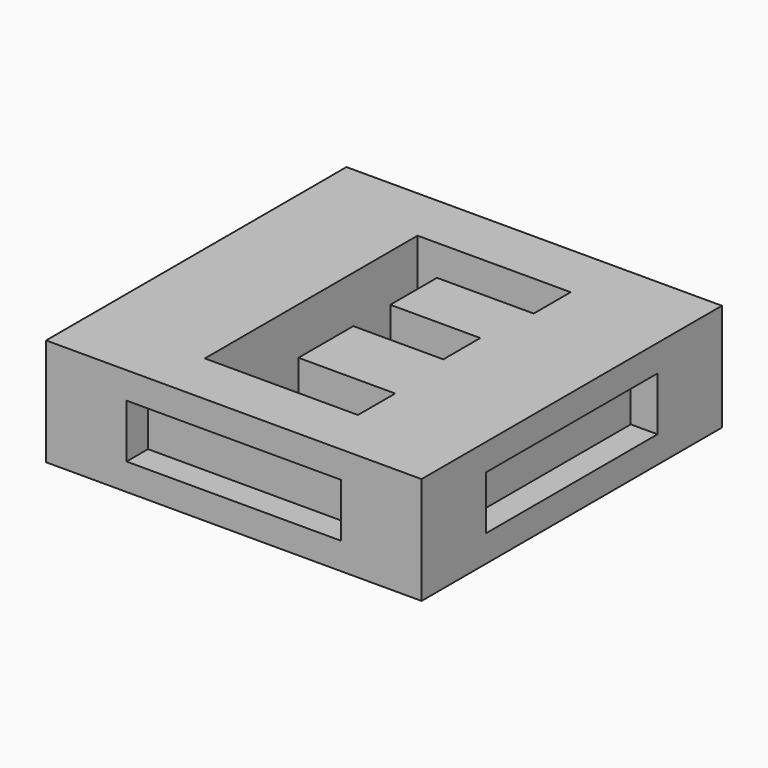
from build123d import *

# Parameters (mm, degrees)
F0_W     = 35.56
F0_H     = 35.56
F1_DEPTH = 5.08
F2_W     = 19.812
F2_H     = 4.572
F3_DEPTH = 2.54
F4_W     = 19.812
F4_H     = 4.572
F5_DEPTH = 2.54
F6_W     = 20.32
F6_H     = 5.08
F7_DEPTH = 2.54
F8_W     = 20.32
F8_H     = 5.08
F9_DEPTH = 2.54


with BuildPart() as f1:
    # F0 (on Top) → F1 (new body, symmetric)
    with BuildSketch(Plane.XY):
        Rectangle(F0_W, F0_H)
        Polygon((7.6922092014, -8.2902777778), (7.6922092014, -12.7), (-6.8102647569, -12.7), (-6.8102647569, 12.4850260417), (7.6922092014, 12.4850260417), (7.6922092014, 8.1083767361), (-1.4689887153, 8.1083767361), (-1.4689887153, 2.5796875), (7.0583116319, 2.5796875), (7.0583116319, -1.7969618056), (-1.4689887153, -1.7969618056), (-1.4689887153, -8.2902777778), align=None, mode=Mode.SUBTRACT)
    extrude(amount=F1_DEPTH, both=True)

    # F2 (on face) → F3 (join)
    with BuildSketch(Plane(origin=(0, 17.78, 0), x_dir=(-1, 0, 0), z_dir=(0, 1, 0))):
        Rectangle(F2_W, F2_H)
    extrude(amount=F3_DEPTH)

    # F4 (on face) → F5 (join)
    with BuildSketch(Plane(origin=(-17.78, 0, 0), x_dir=(0, -1, 0), z_dir=(-1, 0, 0))):
        Rectangle(F4_W, F4_H)
    extrude(amount=F5_DEPTH)

    # F6 (on face) → F7 (cut)
    with BuildSketch(Plane.XZ.offset(17.78)):
        Rectangle(F6_W, F6_H)
    extrude(amount=-F7_DEPTH, mode=Mode.SUBTRACT)

    # F8 (on face) → F9 (cut)
    with BuildSketch(Plane.YZ.offset(17.78)):
        Rectangle(F8_W, F8_H)
    extrude(amount=-F9_DEPTH, mode=Mode.SUBTRACT)


solid = f1.part
